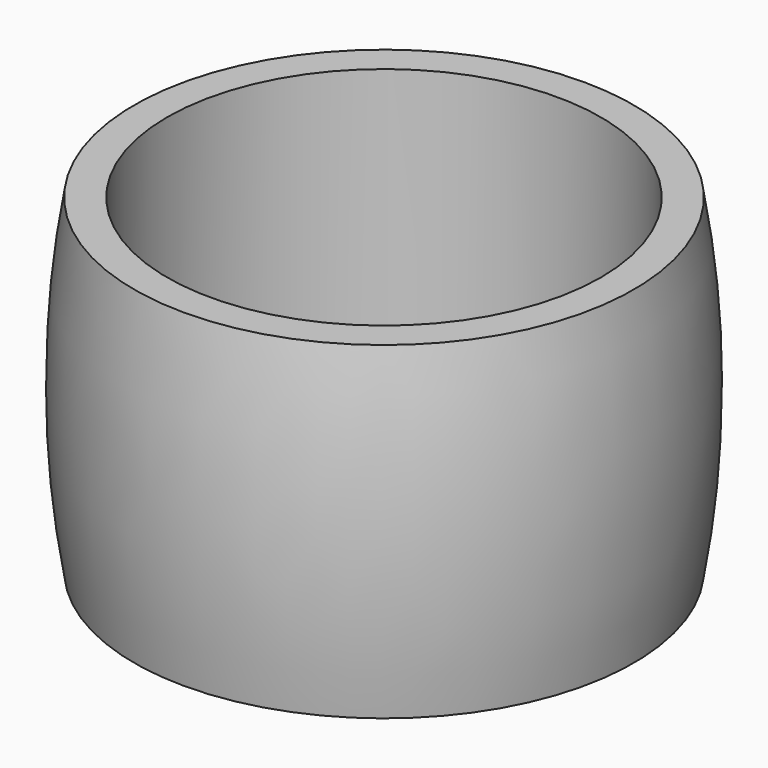
from build123d import *

# Parameters (mm, degrees)
F0_R     = 7.6
F0_R_2   = 6.6
F1_DEPTH = 10


with BuildPart() as f1:
    # F0 (on Top) → F1 (new body)
    with BuildSketch(Plane.XY):
        Circle(F0_R)
        Circle(F0_R_2, mode=Mode.SUBTRACT)
    extrude(amount=F1_DEPTH)

    # F2 (on Right) → F3 (revolve)
    with BuildSketch(Plane.YZ):
        with BuildLine():
            Line((7.6, 10), (7.6, 0))
            ThreePointArc((7.6, 0), (8.034286, 5), (7.6, 10))
        make_face()
    revolve(axis=Axis((0, 0, 10), (0, 0, 1)))


solid = f1.part
